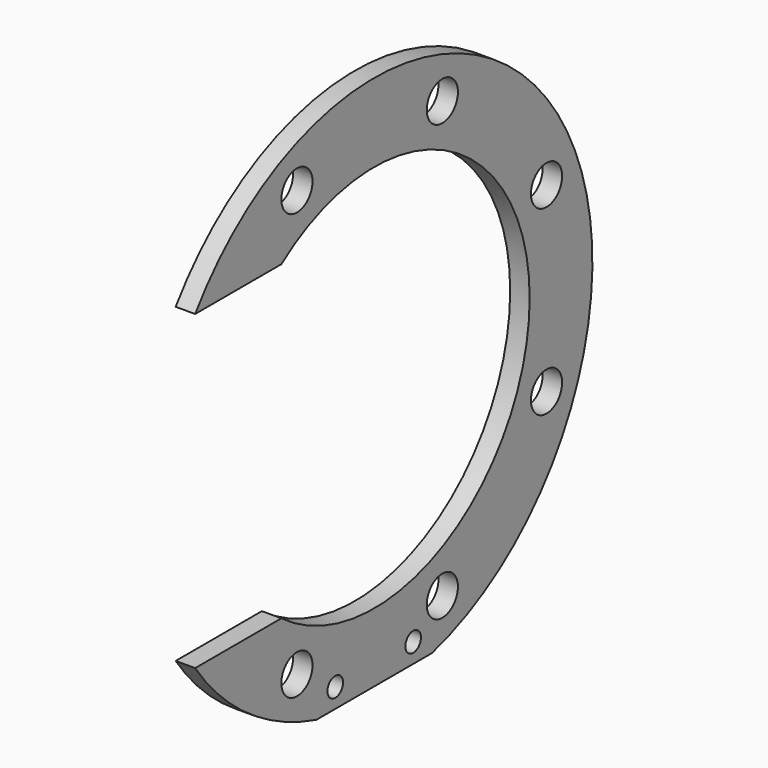
from build123d import *

# Parameters (mm, degrees)
F0_R     = 6.35
F0_R_2   = 12.7
F1_DEPTH = 12.7


with BuildPart() as f1:
    # F0 (on Right) → F1 (new body)
    with BuildSketch(Plane.YZ):
        with BuildLine():
            Line((-192.497232, 31.555194), (-262.760009, 31.555194))
            ThreePointArc((-262.760009, 31.555194), (-219.475912, -12.035632), (-163.940978, -38.294806))
            Line((-163.940978, -38.294806), (-69.755258, -38.294806))
            ThreePointArc((-69.755258, -38.294806), (28.342708, 235.782988), (-262.760009, 234.755194))
            Line((-262.760009, 234.755194), (-192.497232, 234.755194))
            ThreePointArc((-192.497232, 234.755194), (9.822117, 133.155194), (-192.497232, 31.555194))
        make_face()
        with Locations((-148.598118, -25.594806)):
            Circle(F0_R, mode=Mode.SUBTRACT)
        with Locations((-179.797232, -5.636625)):
            Circle(F0_R_2, mode=Mode.SUBTRACT)
        with Locations((-85.098118, -25.594806)):
            Circle(F0_R, mode=Mode.SUBTRACT)
        with Locations((-61.33506, -8.774579)):
            Circle(F0_R_2, mode=Mode.SUBTRACT)
        with Locations((23.561913, 73.903331)):
            Circle(F0_R_2, mode=Mode.SUBTRACT)
        with Locations((-179.797232, 271.947013)):
            Circle(F0_R_2, mode=Mode.SUBTRACT)
        with Locations((23.561913, 192.407056)):
            Circle(F0_R_2, mode=Mode.SUBTRACT)
        with Locations((-61.33506, 275.084967)):
            Circle(F0_R_2, mode=Mode.SUBTRACT)
    extrude(amount=F1_DEPTH)


solid = f1.part
